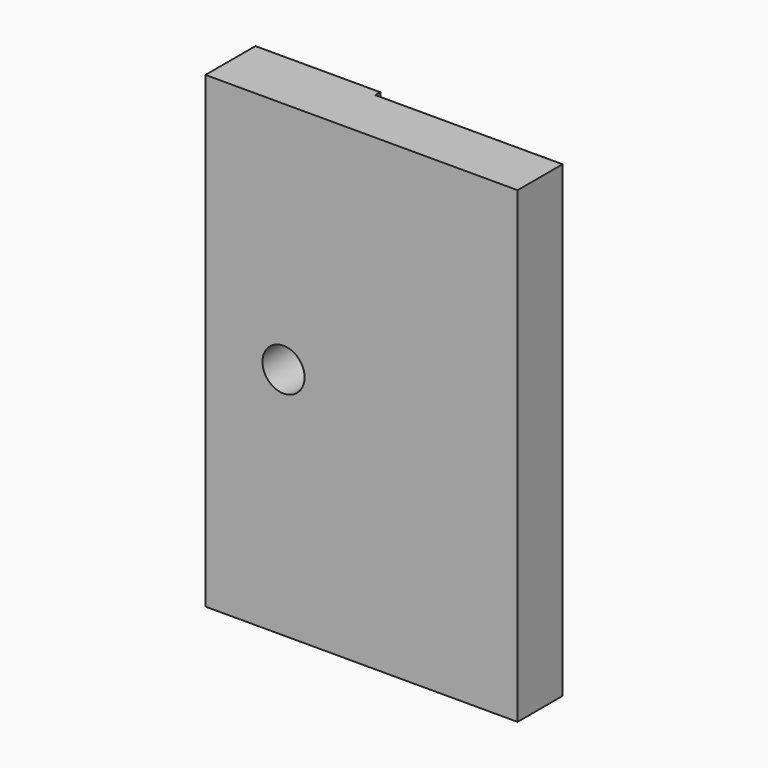
from build123d import *

# Parameters (mm, degrees)
F0_W     = 20
F0_H     = 30
F1_DEPTH = 4
F2_W     = 12
F2_H     = 30
F3_DEPTH = 0.4
F5_D     = 2.7


with BuildPart() as f1:
    # F0 (on Front) → F1 (new body)
    with BuildSketch(Plane.XZ):
        with Locations((10, 15)):
            Rectangle(F0_W, F0_H)
    extrude(amount=F1_DEPTH)

    # F2 (on Front) → F3 (cut)
    with BuildSketch(Plane.XZ):
        with Locations((14, 15)):
            Rectangle(F2_W, F2_H)
    extrude(amount=F3_DEPTH, mode=Mode.SUBTRACT)

    # F5 (through all)
    with Locations(Plane.XZ.offset(4)):
        with Locations((5, 15)):
            Hole(F5_D / 2)


solid = f1.part
